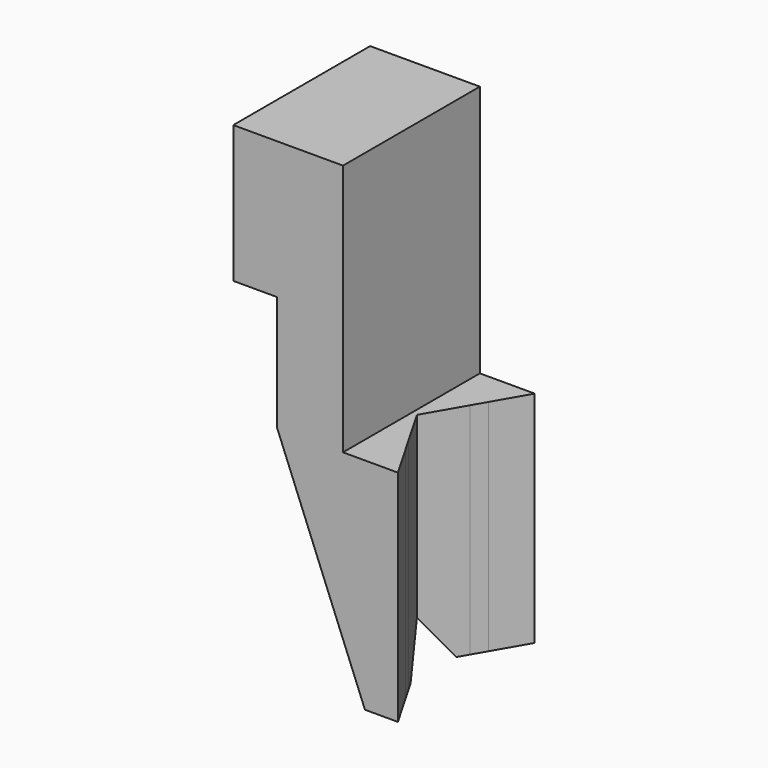
from build123d import *

# Parameters (mm, degrees)
F0_W     = 10
F0_H     = 15.588
F1_DEPTH = 20
F2_W     = 10
F2_H     = 15.588
F3_DEPTH = 23
F5_DEPTH = 15.589
F6_DEPTH = 15.589


with BuildPart() as f1:
    # F0 (on Top) → F1 (new body)
    with BuildSketch(Plane.XY):
        Polygon((-20.4545138283, 3.49999999), (-19.7328258911, 4.7500001644), (-17.9753717666, 7.794), (-22.9753717666, 7.794), (-22.9753717666, -7.794), (-17.9753717666, -7.794), (-19.732826028, -4.7499999273), (-20.4545138514, -3.49999995), (-22.4752397647, 0), align=None)
        with Locations((-27.9753717666, 0)):
            Rectangle(F0_W, F0_H)
    extrude(amount=F1_DEPTH)

    # F2 (on face) → F3 (join)
    with BuildSketch(Plane.XY.offset(20)):
        with Locations((-27.9753717666, 0)):
            Rectangle(F2_W, F2_H)
    extrude(amount=F3_DEPTH)

    # F4 (on face) → F5 (cut, through all)
    with BuildSketch(Plane.XZ.offset(7.794)):
        Polygon((-32.9753717666, 0), (-28.9753717666, 0), (-28.9753717666, 20), (-28.9753717666, 30.5), (-32.9753717666, 30.5), align=None)
    extrude(amount=-F5_DEPTH, mode=Mode.SUBTRACT)

    # F4 (on face) → F6 (cut, through all)
    with BuildSketch(Plane.XZ.offset(7.794)):
        Polygon((-28.9753717666, 0), (-20.9753717666, 0), (-28.9753717666, 20), align=None)
    extrude(amount=-F6_DEPTH, mode=Mode.SUBTRACT)


solid = f1.part
